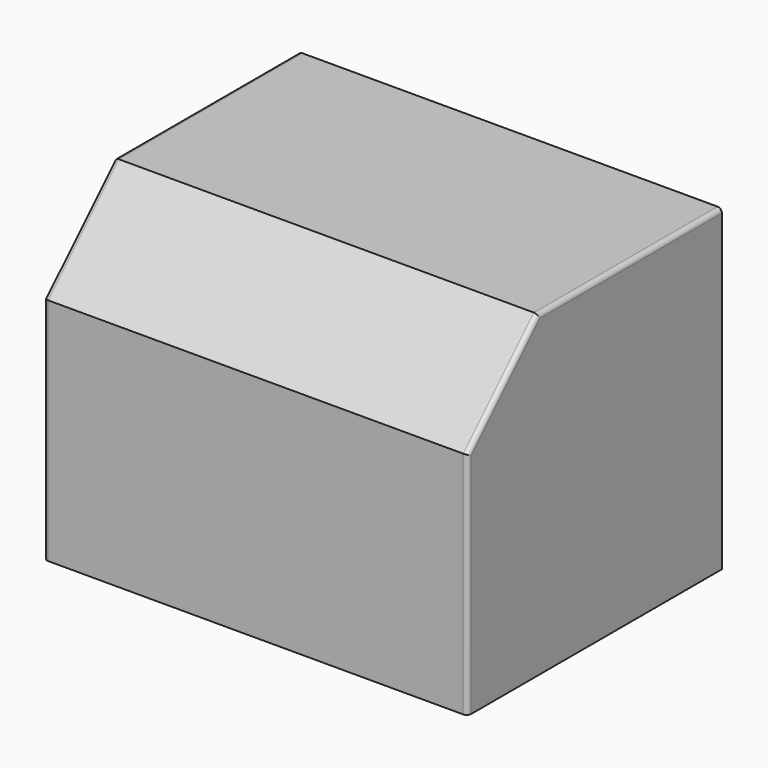
from build123d import *

# Parameters (mm, degrees)
F0_W     = 1219.2
F0_H     = 914.4
F1_DEPTH = 914.4
F2_SIZE  = 254
F3_R     = 12.7


with BuildPart() as f1:
    # F0 (on Top) → F1 (new body)
    with BuildSketch(Plane.XY):
        Rectangle(F0_W, F0_H)
    extrude(amount=F1_DEPTH)

    # F2
    f2_edges = [f1.edges().sort_by_distance(p)[0] for p in [
        (0, -457.2, 914.4),
    ]]
    chamfer(f2_edges, length=F2_SIZE)

    # F3
    f3_edges = [f1.edges().sort_by_distance(p)[0] for p in [
        (609.6, 127, 914.4),
        (609.6, -330.2, 787.4),
        (609.6, -457.2, 330.2),
        (-609.6, -457.2, 330.2),
        (-609.6, -330.2, 787.4),
        (-609.6, 127, 914.4),
    ]]
    fillet(f3_edges, radius=F3_R)


solid = f1.part
